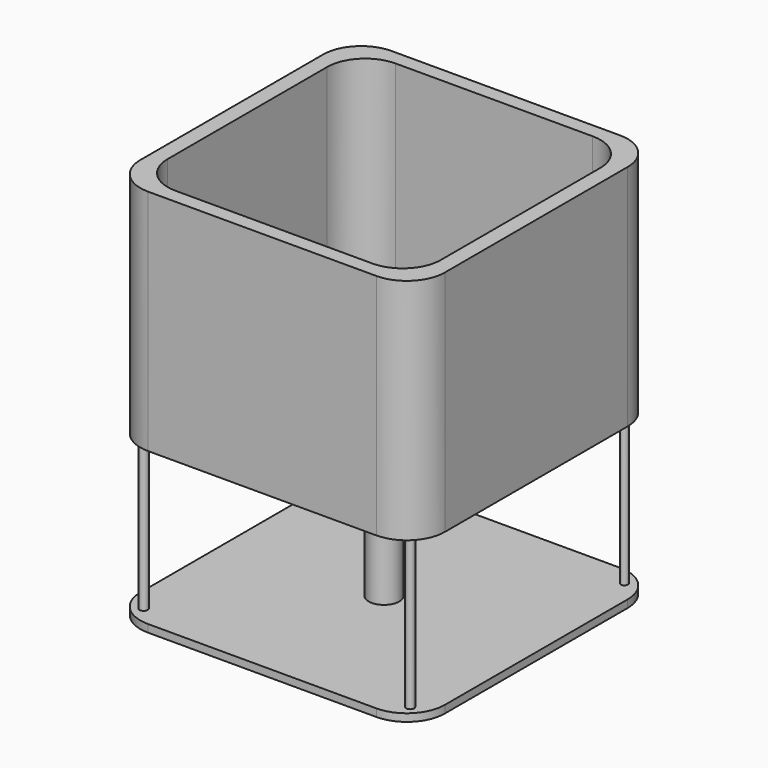
from build123d import *

# Parameters (mm, degrees)
F1_DEPTH  = 5
F2_R      = 9.8923209576
F3_DEPTH  = 8
F4_R      = 9.7627275274
F5_DEPTH  = 8
F6_R      = 9.9691740399
F7_DEPTH  = 8
F8_R      = 9.7571742201
F9_DEPTH  = 8
F10_R     = 10.0534343547
F11_DEPTH = 100
F12_R     = 4.7609440729
F13_DEPTH = 108.001
F15_DEPTH = 100
F17_DEPTH = 100
F18_DEPTH = 50
F19_R     = 2.7052817388
F20_DEPTH = 100
F21_R     = 2.6248544572
F22_DEPTH = 100
F23_R     = 2.3563527367
F24_DEPTH = 100
F25_R     = 2.6047813855
F26_DEPTH = 100


with BuildPart() as f1:
    # F0 (on Top) → F1 (new body)
    with BuildSketch(Plane.XY):
        with BuildLine():
            Line((-75, -100), (75, -100))
            ThreePointArc((75, -100), (92.6776695297, -92.6776695297), (100, -75))
            Line((100, -75), (100, 75))
            ThreePointArc((100, 75), (92.6776695297, 92.6776695297), (75, 100))
            Line((75, 100), (-75, 100))
            ThreePointArc((-75, 100), (-92.6776695297, 92.6776695297), (-100, 75))
            Line((-100, 75), (-100, -75))
            ThreePointArc((-100, -75), (-92.6776695297, -92.6776695297), (-75, -100))
        make_face()
    extrude(amount=F1_DEPTH)

    # F2 (on face) → F3 (join)
    with BuildSketch(Plane.XY.offset(5)):
        with Locations((76.7015740275, -79.158835113)):
            Circle(F2_R)
    extrude(amount=-F3_DEPTH)

    # F4 (on face) → F5 (join)
    with BuildSketch(Plane.XY.offset(5)):
        with Locations((82.5259238482, 79.0480151772)):
            Circle(F4_R)
    extrude(amount=-F5_DEPTH)

    # F6 (on face) → F7 (join)
    with BuildSketch(Plane.XY.offset(5)):
        with Locations((-78.9363756776, 81.9867923856)):
            Circle(F6_R)
    extrude(amount=-F7_DEPTH)

    # F8 (on face) → F9 (join)
    with BuildSketch(Plane.XY.offset(5)):
        with Locations((-81.8521156907, -78.8478627801)):
            Circle(F8_R)
    extrude(amount=-F9_DEPTH)

    # F10 (on face) → F11 (join)
    with BuildSketch(Plane.XY.offset(5)):
        Circle(F10_R)
    extrude(amount=F11_DEPTH)

    # F12 (on face) → F13 (cut, through all)
    with BuildSketch(Plane.XY.offset(105)):
        Circle(F12_R)
    extrude(amount=-F13_DEPTH, mode=Mode.SUBTRACT)

    # F14 (on face) → F15 (join)
    with BuildSketch(Plane.XY.offset(105)):
        with BuildLine():
            Line((-75, -100), (75, -100))
            ThreePointArc((75, -100), (92.6776695297, -92.6776695297), (100, -75))
            Line((100, -75), (100, 75))
            ThreePointArc((100, 75), (92.6776695297, 92.6776695297), (75, 100))
            Line((75, 100), (-75, 100))
            ThreePointArc((-75, 100), (-92.6776695297, 92.6776695297), (-100, 75))
            Line((-100, 75), (-100, -75))
            ThreePointArc((-100, -75), (-92.6776695297, -92.6776695297), (-75, -100))
        make_face()
    extrude(amount=F15_DEPTH)

    # F16 (on face) → F17 (cut)
    with BuildSketch(Plane.XY.offset(205)):
        with BuildLine():
            Line((89.7032395005, -65.4586389661), (89.7032395005, 0))
            Line((89.7032395005, 0), (89.7032395005, 65.4586389661))
            ThreePointArc((89.7032395005, 65.4586389661), (82.3809090302, 83.1363084957), (64.7032395005, 90.4586389661))
            Line((64.7032395005, 90.4586389661), (0, 90.4586389661))
            Line((0, 90.4586389661), (-64.7032395005, 90.4586389661))
            ThreePointArc((-64.7032395005, 90.4586389661), (-82.3809090302, 83.1363084957), (-89.7032395005, 65.4586389661))
            Line((-89.7032395005, 65.4586389661), (-89.7032395005, -65.4586389661))
            ThreePointArc((-89.7032395005, -65.4586389661), (-82.3809090302, -83.1363084957), (-64.7032395005, -90.4586389661))
            Line((-64.7032395005, -90.4586389661), (0, -90.4586389661))
            Line((0, -90.4586389661), (64.7032395005, -90.4586389661))
            ThreePointArc((64.7032395005, -90.4586389661), (82.3809090302, -83.1363084957), (89.7032395005, -65.4586389661))
        make_face()
    extrude(amount=-F17_DEPTH, mode=Mode.SUBTRACT)

    # F18 (add): a face of the model
    f18_faces = [f1.faces().sort_by_distance(p)[0] for p in [
        (0, -97.1715728753, 205),
    ]]
    extrude(f18_faces, amount=F18_DEPTH)


with BuildPart() as f20:
    # F19 (on face) → F20 (new body, through all)
    with BuildSketch(Plane(origin=(0, 0, 105), x_dir=(1, 0, 0), z_dir=(0, 0, -1))):
        with Locations((-87.5292892799, 87.9069890127)):
            Circle(F19_R)
    extrude(amount=F20_DEPTH)


with BuildPart() as f22:
    # F21 (on face) → F22 (new body, through all)
    with BuildSketch(Plane(origin=(0, 0, 105), x_dir=(1, 0, 0), z_dir=(0, 0, -1))):
        with Locations((-87.5292892799, -87.9069890127)):
            Circle(F21_R)
    extrude(amount=F22_DEPTH)


with BuildPart() as f24:
    # F23 (on face) → F24 (new body, through all)
    with BuildSketch(Plane(origin=(0, 0, 105), x_dir=(1, 0, 0), z_dir=(0, 0, -1))):
        with Locations((87.5292892799, -87.9069890127)):
            Circle(F23_R)
    extrude(amount=F24_DEPTH)


with BuildPart() as f26:
    # F25 (on face) → F26 (new body, through all)
    with BuildSketch(Plane(origin=(0, 0, 105), x_dir=(1, 0, 0), z_dir=(0, 0, -1))):
        with Locations((87.5292892799, 87.9069890127)):
            Circle(F25_R)
    extrude(amount=F26_DEPTH)


solid = Compound([f1.part, f20.part, f22.part, f24.part, f26.part])
